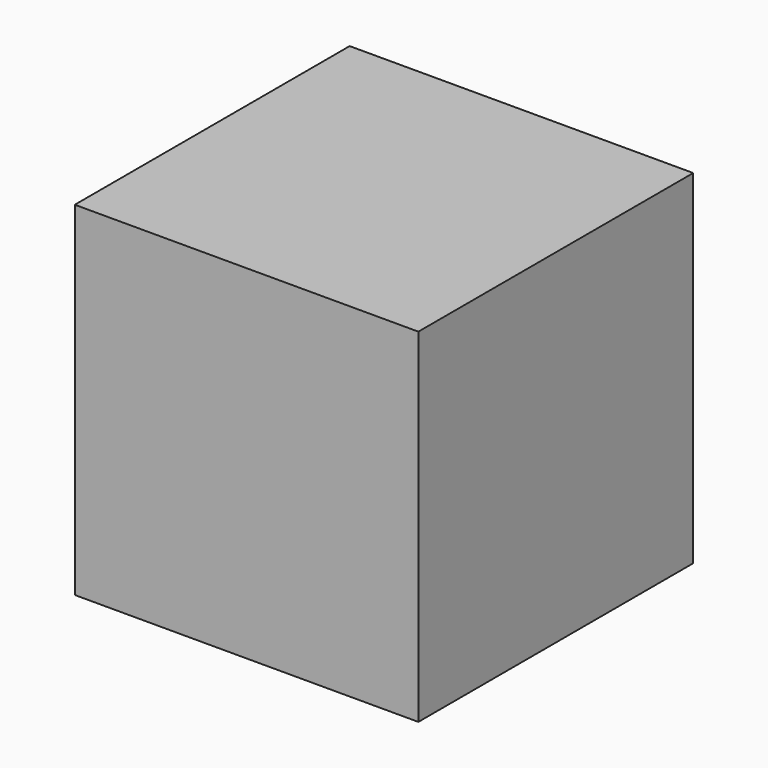
from build123d import *

# Parameters (mm, degrees)
SKETCH_W     = 37
SKETCH_H     = 37
PAD_DEPTH    = 37
SKETCH001_R  = 5
POCKET_DEPTH = 2


with BuildPart() as part:
    # Sketch → Pad (new body)
    with BuildSketch(Plane.XY):
        Rectangle(SKETCH_W, SKETCH_H)
    extrude(amount=PAD_DEPTH)

    # Sketch001 → Pocket (cut)
    with BuildSketch(Plane(origin=(-18.5, 0, 0), x_dir=(0, -1, 0), z_dir=(-1, 0, 0))):
        with Locations((0.0185, 18.5)):
            Circle(SKETCH001_R)
    extrude(amount=-POCKET_DEPTH, mode=Mode.SUBTRACT)


solid = part.part
